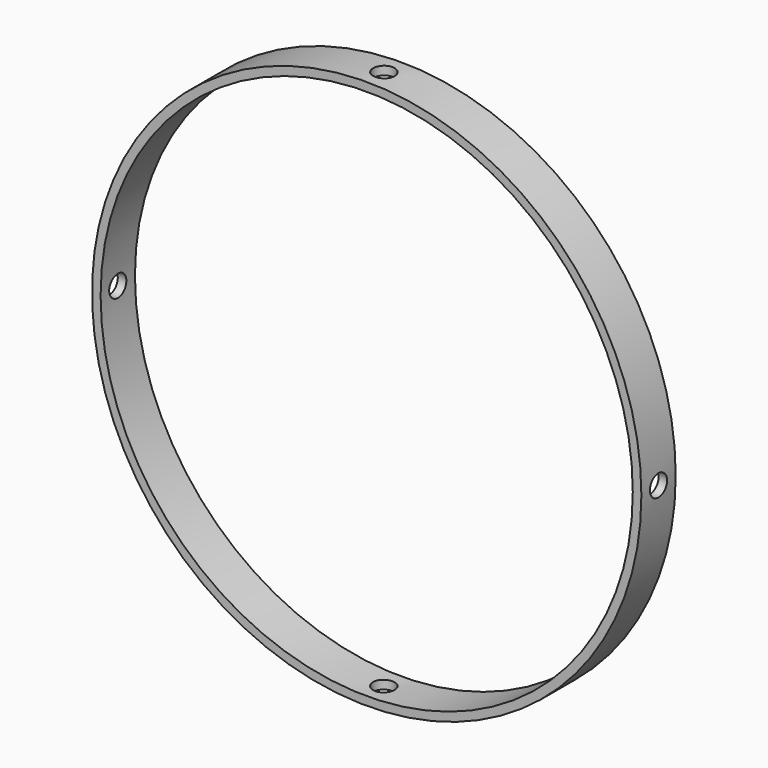
from build123d import *

# Parameters (mm, degrees)
F0_R          = 40.64
F0_R_2        = 39.37
F1_DEPTH      = 3.175
F2_R          = 1.5875
F4_DEPTH      = 40.641
F4_DEPTH_BACK = 49.77658
F3_R          = 1.5875
F5_DEPTH      = 40.6410001
F5_DEPTH_BACK = 44.7205


with BuildPart() as f1:
    # F0 (on Front) → F1 (new body, symmetric)
    with BuildSketch(Plane.XZ):
        Circle(F0_R)
        Circle(F0_R_2, mode=Mode.SUBTRACT)
    extrude(amount=F1_DEPTH, both=True)

    # F2 (on Top) → F4 (cut, two sides)
    with BuildSketch(Plane.XY) as f4_sk:
        Circle(F2_R)
    extrude(amount=-F4_DEPTH, mode=Mode.SUBTRACT)
    extrude(f4_sk.sketch, amount=F4_DEPTH_BACK, mode=Mode.SUBTRACT)

    # F3 (on Right) → F5 (cut, two sides)
    with BuildSketch(Plane.YZ) as f5_sk:
        Circle(F3_R)
    extrude(amount=-F5_DEPTH, mode=Mode.SUBTRACT)
    extrude(f5_sk.sketch, amount=F5_DEPTH_BACK, mode=Mode.SUBTRACT)


solid = f1.part
